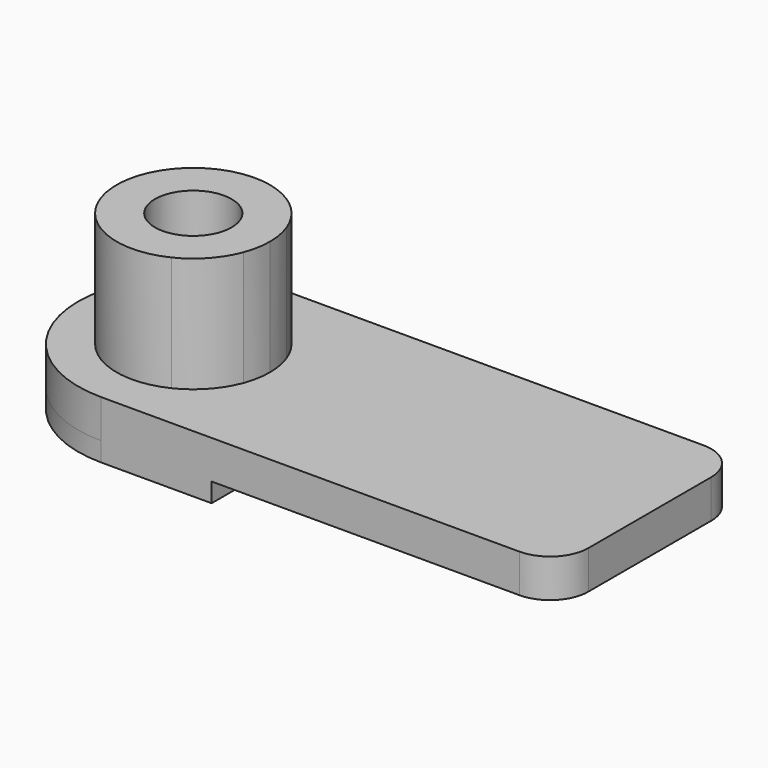
from build123d import *

# Parameters (mm, degrees)
F1_DEPTH = 100
F3_DEPTH = 50
F5_DEPTH = 300
F6_R     = 100
F7_DEPTH = 450.001


with BuildPart() as f1:
    # F0 (on Top) → F1 (new body)
    with BuildSketch(Plane.XY):
        with BuildLine():
            ThreePointArc((-595, 300), (-895, 0), (-595, -300))
            Line((-595, -300), (495, -300))
            ThreePointArc((495, -300), (565.710678, -270.710678), (595, -200))
            Line((595, -200), (595, 200))
            ThreePointArc((595, 200), (565.710678, 270.710678), (495, 300))
            Line((495, 300), (-595, 300))
        make_face()
    extrude(amount=F1_DEPTH)

    # F2 (on face) → F3 (join)
    with BuildSketch(Plane(origin=(0, 0, 0), x_dir=(1, 0, 0), z_dir=(0, 0, -1))):
        with BuildLine():
            ThreePointArc((-595, 300), (-717.474487, 273.861279), (-818.606798, 200))
            Line((-818.606798, 200), (-307.265759, 200))
            Line((-307.265759, 200), (-307.265759, 300))
            Line((-307.265759, 300), (-595, 300))
        make_face()
        with BuildLine():
            Line((-307.265759, -200), (-818.606798, -200))
            ThreePointArc((-818.606798, -200), (-717.474487, -273.861279), (-595, -300))
            Line((-595, -300), (-307.265759, -300))
            Line((-307.265759, -300), (-307.265759, -200))
        make_face()
    extrude(amount=F3_DEPTH)

    # F4 (on face) → F5 (join)
    with BuildSketch(Plane.XY.offset(100)):
        with BuildLine():
            ThreePointArc((-407.65006, -70), (-398.187922, -35.566923), (-395, 0))
            ThreePointArc((-395, 0), (-398.187922, 35.566923), (-407.65006, 70))
            ThreePointArc((-407.65006, 70), (-447.1271, 134.661076), (-507.822021, 180))
            ThreePointArc((-507.822021, 180), (-795, 0), (-507.822021, -180))
            ThreePointArc((-507.822021, -180), (-447.1271, -134.661076), (-407.65006, -70))
        make_face()
    extrude(amount=F5_DEPTH)

    # F6 (on face) → F7 (cut, through all)
    with BuildSketch(Plane.XY.offset(400)):
        with Locations((-595, 0)):
            Circle(F6_R)
    extrude(amount=-F7_DEPTH, mode=Mode.SUBTRACT)


solid = f1.part
